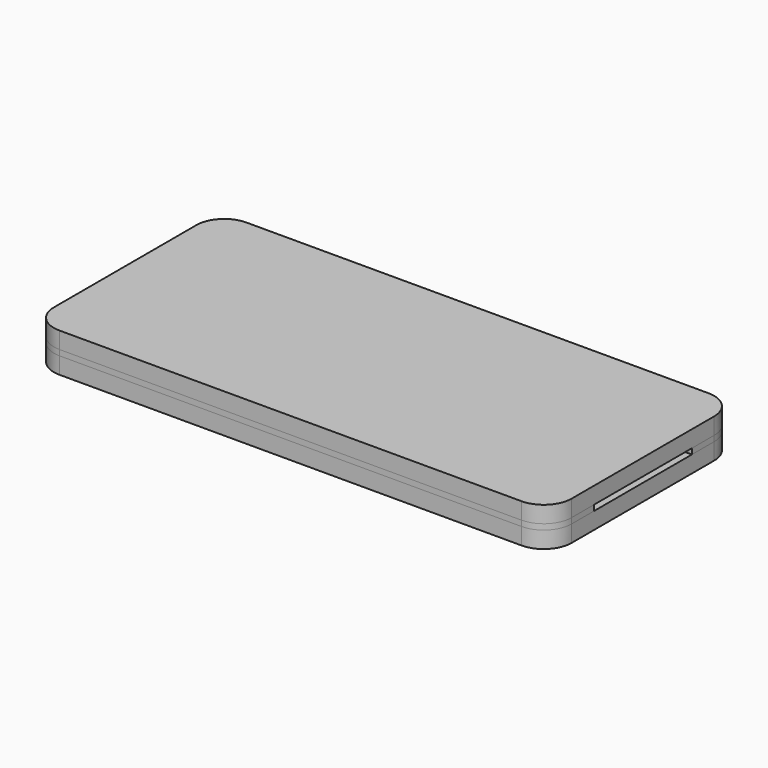
from build123d import *

# Parameters (mm, degrees)
F0_R     = 2
F0_W     = 69
F0_H     = 14
F1_DEPTH = 3
F2_R     = 2
F3_DEPTH = 1
F5_DEPTH = 3


with BuildPart() as f1:
    # F0 (on Top) → F1 (new body)
    with BuildSketch(Plane.XY):
        with BuildLine():
            Line((39.5, 21), (-43.5, 21))
            ThreePointArc((-43.5, 21), (-47.035534, 19.535534), (-48.5, 16))
            Line((-48.5, 16), (-48.5, -16))
            ThreePointArc((-48.5, -16), (-47.035534, -19.535534), (-43.5, -21))
            Line((-43.5, -21), (39.5, -21))
            ThreePointArc((39.5, -21), (43.035534, -19.535534), (44.5, -16))
            Line((44.5, -16), (44.5, 16))
            ThreePointArc((44.5, 16), (43.035534, 19.535534), (39.5, 21))
        make_face()
        with Locations((-43.5, 16)):
            Circle(F0_R, mode=Mode.SUBTRACT)
        Rectangle(F0_W, F0_H, mode=Mode.SUBTRACT)
    extrude(amount=-F1_DEPTH)


with BuildPart() as f3:
    # F2 (on face) → F3 (new body)
    with BuildSketch(Plane.XY):
        with BuildLine():
            Line((-38.5, 11), (44.5, 11))
            Line((44.5, 11), (44.5, 16))
            ThreePointArc((44.5, 16), (43.035534, 19.535534), (39.5, 21))
            Line((39.5, 21), (-43.5, 21))
            ThreePointArc((-43.5, 21), (-47.035534, 19.535534), (-48.5, 16))
            Line((-48.5, 16), (-48.5, -16))
            ThreePointArc((-48.5, -16), (-47.035534, -19.535534), (-43.5, -21))
            Line((-43.5, -21), (39.5, -21))
            ThreePointArc((39.5, -21), (43.035534, -19.535534), (44.5, -16))
            Line((44.5, -16), (44.5, -11))
            Line((44.5, -11), (-38.5, -11))
            Line((-38.5, -11), (-38.5, 11))
        make_face()
        with Locations((-43.5, 16)):
            Circle(F2_R, mode=Mode.SUBTRACT)
    extrude(amount=F3_DEPTH)


with BuildPart() as f5:
    # F4 (on face) → F5 (new body)
    with BuildSketch(Plane.XY.offset(1)):
        with BuildLine():
            Line((44.5, -16), (44.5, 16))
            ThreePointArc((44.5, 16), (43.035534, 19.535534), (39.5, 21))
            Line((39.5, 21), (-43.5, 21))
            ThreePointArc((-43.5, 21), (-47.035534, 19.535534), (-48.5, 16))
            Line((-48.5, 16), (-48.5, -16))
            ThreePointArc((-48.5, -16), (-47.035534, -19.535534), (-43.5, -21))
            Line((-43.5, -21), (39.5, -21))
            ThreePointArc((39.5, -21), (43.035534, -19.535534), (44.5, -16))
        make_face()
    extrude(amount=F5_DEPTH)


solid = Compound([f1.part, f3.part, f5.part])
